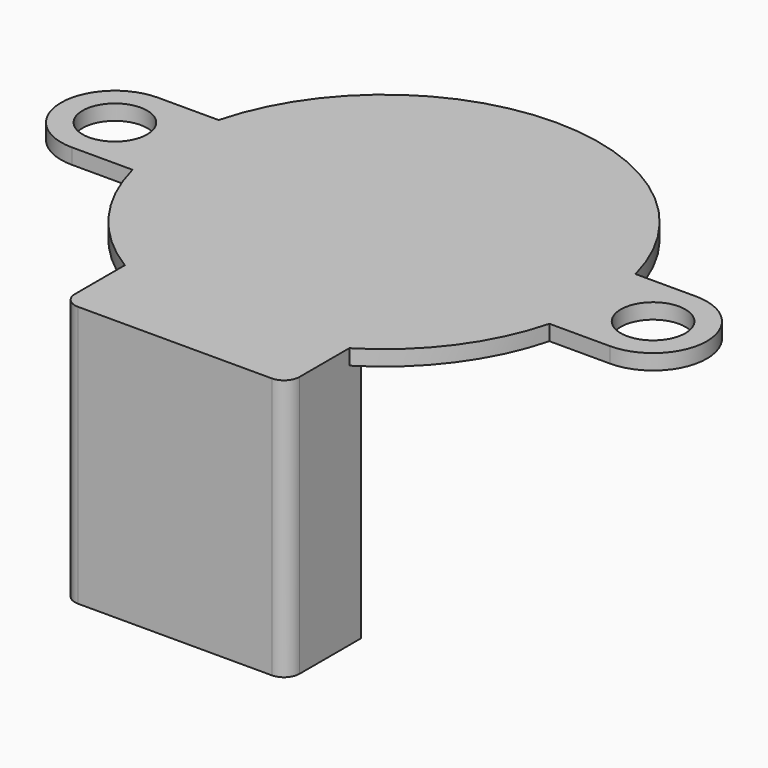
from build123d import *

# Parameters (mm, degrees)
PAD040_DEPTH  = 1
SKETCH052_R   = 2.1
HOLE003_DEPTH = 25
PAD039_DEPTH  = 17


with BuildPart() as part:
    # Sketch051 (on Face1 of CopyPad005) → Pad040 (new body)
    with BuildSketch(Plane.XY.offset(19)):
        with BuildLine():
            ThreePointArc((-13.555442, -3.5), (0, -14), (13.555442, -3.5))
            Line((13.555442, -3.5), (17.5, -3.5))
            ThreePointArc((17.5, -3.5), (21, 0), (17.5, 3.5))
            Line((13.555442, 3.5), (17.5, 3.5))
            ThreePointArc((13.555442, 3.5), (0, 14), (-13.555442, 3.5))
            Line((-13.555442, 3.5), (-17.5, 3.5))
            ThreePointArc((-17.5, 3.5), (-21, 0), (-17.5, -3.5))
            Line((-13.555442, -3.5), (-17.5, -3.5))
        make_face()
    extrude(amount=-PAD040_DEPTH)

    # Sketch052 (on Face9 of Pad040) → Hole003 (cut)
    with BuildSketch(Plane.XY.offset(19)):
        with Locations((-17.5, 0)):
            Circle(SKETCH052_R)
        with Locations((17.5, 0)):
            Circle(SKETCH052_R)
    extrude(amount=-HOLE003_DEPTH, mode=Mode.SUBTRACT)

    # Sketch050 (on Face4 of Hole003) → Pad039 (join)
    with BuildSketch(Plane.XY.offset(19)):
        with BuildLine():
            Line((-7.3, -11), (7.3, -11))
            Line((7.3, -11), (7.3, -16))
            ThreePointArc((6.3, -17), (7.007107, -16.707107), (7.3, -16))
            Line((6.3, -17), (-6.3, -17))
            ThreePointArc((-7.3, -16), (-7.007107, -16.707107), (-6.3, -17))
            Line((-7.3, -16), (-7.3, -11))
        make_face()
    extrude(amount=-PAD039_DEPTH)


solid = part.part
